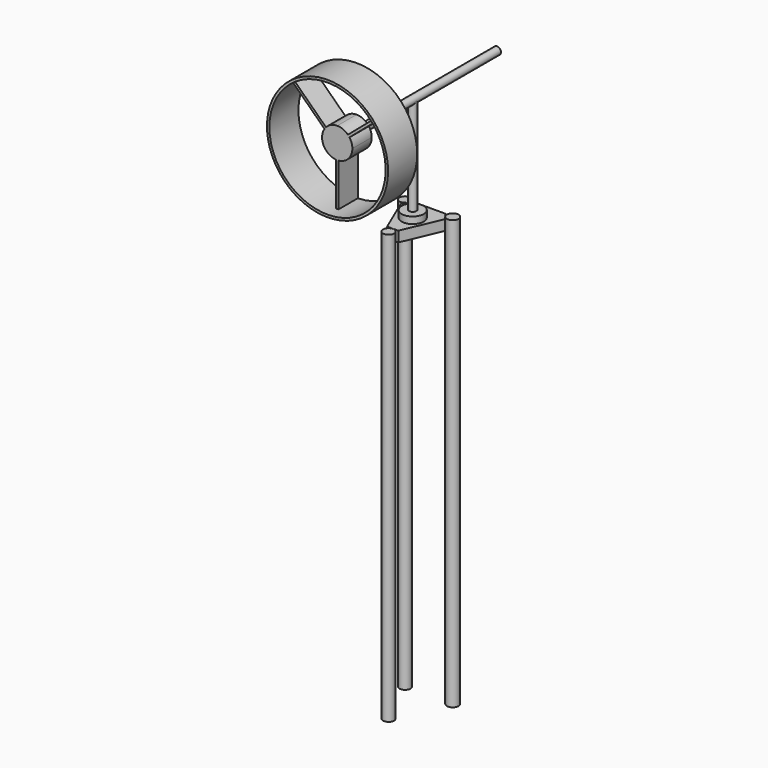
from build123d import *

# Parameters (mm, degrees)
F0_R      = 63.5
F1_DEPTH  = 38.1
F3_D      = 121.92
F4_R      = 11
F5_DEPTH  = 25.4
F7_DEPTH  = 25.4
F8_R      = 11
F9_DEPTH  = 7
F11_D     = 8
F11_DEPTH = 7
F11_TIP   = 2.4034424761
F12_R     = 11
F13_DEPTH = 6.35
F14_R     = 4
F15_DEPTH = 203.2
F16_R     = 4
F17_DEPTH = 101.6
F18_R     = 3.5
F19_DEPTH = 7.4422
F20_R     = 11
F20_R_2   = 3.5
F21_DEPTH = 7
F22_R     = 11.584423549
F22_R_2   = 11
F23_DEPTH = 7
F24_R     = 11.584423549
F25_DEPTH = 10.8712
F26_R     = 5.7529740036
F27_DEPTH = 449.58
F26_R_2   = 5.8113326004
F26_R_3   = 6.1284704767


with BuildPart() as f1:
    # F0 (on Front) → F1 (new body)
    with BuildSketch(Plane.XZ):
        Circle(F0_R)
    extrude(amount=F1_DEPTH)

    # F3 (through all)
    with Locations(Plane.XZ.offset(38.1)):
        with Locations((0, 0)):
            Hole(F3_D / 2)



with BuildPart() as f5:
    # F4 (on Front) → F5 (new body)
    with BuildSketch(Plane.XZ):
        with BuildLine():
            ThreePointArc((12.5508166542, -9.7207317787), (15.0209826474, -5.1367017927), (15.875, 0))
            ThreePointArc((15.875, 0), (11.2253201513, 11.2253201513), (0, 15.875))
            ThreePointArc((0, 15.875), (-14.3692530341, 6.7483473713), (-12.2165305121, -10.1376529457))
            ThreePointArc((-12.2165305121, -10.1376529457), (0.2671939765, -15.8727512542), (12.5508166542, -9.7207317787))
        make_face()
        Circle(F4_R, mode=Mode.SUBTRACT)
    extrude(amount=F5_DEPTH)


with BuildPart() as f1_1:
    add(f1.part)

    add(f5.part)  # F7 merges F5
    # F6 (on face) → F7 (join)
    with BuildSketch(Plane.XZ.offset(25.4)):
        with BuildLine():
            Line((-11.7582414079, 10.6658044232), (-44.1259771522, 42.059716361))
            Line((-44.1259771522, 42.059716361), (-45.8397811787, 40.1850228504))
            Line((-45.8397811787, 40.1850228504), (-13.3087949682, 8.6539933842))
            ThreePointArc((-13.3087949682, 8.6539933842), (-12.5738189936, 9.6909597521), (-11.7582414079, 10.6658044232))
        make_face()
        with BuildLine():
            Line((12.8607880394, 9.3067586198), (47.1825025581, 38.5996509357))
            Line((47.1825025581, 38.5996509357), (45.533575801, 40.5316552188))
            Line((45.533575801, 40.5316552188), (11.2118612823, 11.2387629029))
            ThreePointArc((11.2118612823, 11.2387629029), (12.0750267693, 10.3057922316), (12.8607880394, 9.3067586198))
        make_face()
        with BuildLine():
            Line((-1.27, -60.9467693976), (1.27, -60.9467693976))
            Line((1.27, -60.9467693976), (1.27, -15.8241184589))
            ThreePointArc((1.27, -15.8241184589), (0, -15.875), (-1.27, -15.8241184589))
            Line((-1.27, -15.8241184589), (-1.27, -60.9467693976))
        make_face()
    extrude(amount=-F7_DEPTH)

    # F12 (on face) → F13 (join)
    with BuildSketch(Plane.XZ.offset(25.4)):
        Circle(F12_R)
    extrude(amount=-F13_DEPTH)


with BuildPart() as f9:
    # F8 (on Front) → F9 (new body)
    with BuildSketch(Plane.XZ):
        Circle(F8_R)
    extrude(amount=F9_DEPTH)

    # F11
    with Locations(Plane(origin=(0, 0, 0), x_dir=(1, 0, 0), z_dir=(0, 1, 0))):
        with Locations((0, 0)):
            Hole(F11_D / 2, depth=F11_DEPTH)
            with Locations((0, 0, -(F11_DEPTH + F11_TIP / 2))):  # 118° drill point
                Cone(0, F11_D / 2, F11_TIP, mode=Mode.SUBTRACT)


with BuildPart() as f15:
    # F14 (on face) → F15 (new body)
    with BuildSketch(Plane(origin=(0, -19.05, 0), x_dir=(-1, 0, 0), z_dir=(0, 1, 0))):
        Circle(F14_R)
    extrude(amount=F15_DEPTH)

    # F16 (on Top) → F17 (join)
    with BuildSketch(Plane.XY):
        with Locations((0, 73.4625874707)):
            Circle(F16_R)
    extrude(amount=-F17_DEPTH)

    # F18 (on face) → F19 (join)
    with BuildSketch(Plane(origin=(0, 0, -101.6), x_dir=(1, 0, 0), z_dir=(0, 0, -1))):
        with Locations((0, -73.4625874707)):
            Circle(F18_R)
    extrude(amount=F19_DEPTH)


with BuildPart() as f21:
    # F20 (on face) → F21 (new body)
    with BuildSketch(Plane(origin=(0, 0, -109.0422), x_dir=(1, 0, 0), z_dir=(0, 0, -1))):
        with Locations((0, -73.4625874707)):
            Circle(F20_R)
        with Locations((0, -73.4625874707)):
            Circle(F20_R_2, mode=Mode.SUBTRACT)
    extrude(amount=-F21_DEPTH)


with BuildPart() as f23:
    # F22 (on face) → F23 (new body)
    with BuildSketch(Plane(origin=(0, 0, -109.0422), x_dir=(1, 0, 0), z_dir=(0, 0, -1))):
        with Locations((0, -73.4625874707)):
            Circle(F22_R)
        with Locations((0, -73.4625874707)):
            Circle(F22_R_2, mode=Mode.SUBTRACT)
    extrude(amount=-F23_DEPTH)


with BuildPart() as f25:
    # F24 (on face) → F25 (new body)
    with BuildSketch(Plane(origin=(0, 0, -109.0422), x_dir=(1, 0, 0), z_dir=(0, 0, -1))):
        Polygon((-22.9720189005, -86.8556248707), (-17.4109060317, -95.5397163391), (16.7600270361, -95.5397163391), (22.3313096363, -87.6411880186), (5.3758203067, -47.951799591), (-6.3521257616, -47.951799591), align=None)
        with Locations((0, -73.4625874707)):
            Circle(F24_R, mode=Mode.SUBTRACT)
    extrude(amount=F25_DEPTH)


with BuildPart() as f27:
    # F26 (on face) → F27 (new body)
    with BuildSketch(Plane.XY.offset(-109.0422)):
        with Locations((-24.8760152608, 94.6010127664)):
            Circle(F26_R)
    extrude(amount=-F27_DEPTH)


with BuildPart() as f27b:
    # F26 (on face) → F27, piece 2 (new body)
    with BuildSketch(Plane.XY.offset(-109.0422)):
        with Locations((0, 41.9037491083)):
            Circle(F26_R_2)
    extrude(amount=-F27_DEPTH)


with BuildPart() as f27c:
    # F26 (on face) → F27, piece 3 (new body)
    with BuildSketch(Plane.XY.offset(-109.0422)):
        with Locations((24.7146431357, 95.061250031)):
            Circle(F26_R_3)
    extrude(amount=-F27_DEPTH)


solid = Compound([f1_1.part, f9.part, f15.part, f21.part, f23.part, f25.part, f27.part, f27b.part, f27c.part])
